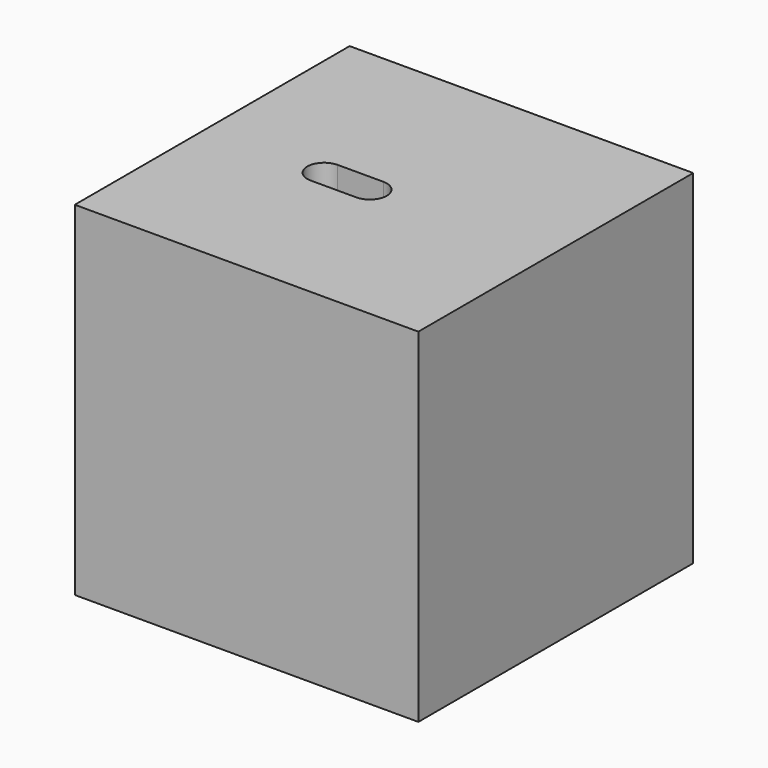
from build123d import *

# Parameters (mm, degrees)
F0_W     = 101.6
F0_H     = 101.6
F1_DEPTH = 101.6
F3_DEPTH = 30


with BuildPart() as f1:
    # F0 (on Top) → F1 (new body)
    with BuildSketch(Plane.XY):
        Rectangle(F0_W, F0_H)
    extrude(amount=F1_DEPTH)

    # F2 (on face) → F3 (cut)
    with BuildSketch(Plane.XY.offset(101.6)):
        with BuildLine():
            ThreePointArc((-15.824869, -7.318), (-12.289335, -5.853534), (-10.824869, -2.318))
            ThreePointArc((-10.824869, -2.318), (-12.289335, 1.217534), (-15.824869, 2.682))
            ThreePointArc((-15.824869, 2.682), (-20.824869, -2.318), (-15.824869, -7.318))
        make_face()
        with BuildLine():
            ThreePointArc((-15.824869, 2.682), (-12.289335, 1.217534), (-10.824869, -2.318))
            ThreePointArc((-10.824869, -2.318), (-12.289335, -5.853534), (-15.824869, -7.318))
            Line((-15.824869, -7.318), (-2.324869, -7.318))
            ThreePointArc((-2.324869, -7.318), (-7.324869, -2.318), (-2.324869, 2.682))
            Line((-2.324869, 2.682), (-15.824869, 2.682))
        make_face()
        with BuildLine():
            ThreePointArc((2.675131, -2.318), (1.210665, 1.217534), (-2.324869, 2.682))
            ThreePointArc((-2.324869, 2.682), (-7.324869, -2.318), (-2.324869, -7.318))
            ThreePointArc((-2.324869, -7.318), (1.210665, -5.853534), (2.675131, -2.318))
        make_face()
    extrude(amount=-F3_DEPTH, mode=Mode.SUBTRACT)


solid = f1.part
